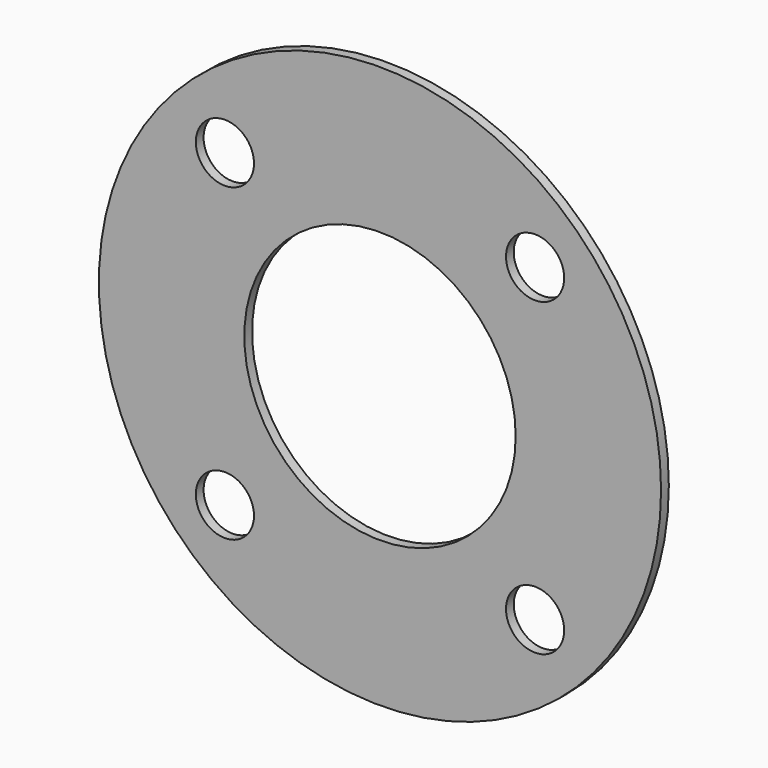
from build123d import *

# Parameters (mm, degrees)
F0_R     = 14.5
F0_R_2   = 1.5
F0_R_3   = 7
F1_DEPTH = 0.5


with BuildPart() as f1:
    # F0 (on Front) → F1 (new body)
    with BuildSketch(Plane.XZ):
        Circle(F0_R)
        with Locations((-8, -8)):
            Circle(F0_R_2, mode=Mode.SUBTRACT)
        with Locations((8, -8)):
            Circle(F0_R_2, mode=Mode.SUBTRACT)
        with Locations((-8, 8)):
            Circle(F0_R_2, mode=Mode.SUBTRACT)
        Circle(F0_R_3, mode=Mode.SUBTRACT)
        with Locations((8, 8)):
            Circle(F0_R_2, mode=Mode.SUBTRACT)
    extrude(amount=F1_DEPTH)


solid = f1.part
